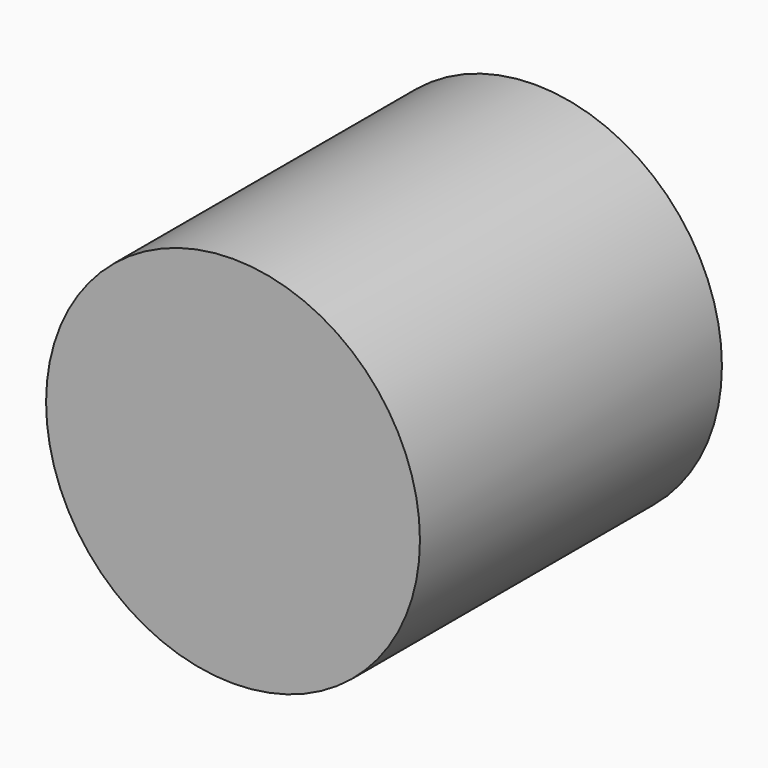
from build123d import *

# Parameters (mm, degrees)
F0_R     = 62.891877
F1_DEPTH = 127
F2_T     = -2.54


with BuildPart() as f1:
    # F0 (on Front) → F1 (new body)
    with BuildSketch(Plane.XZ):
        Circle(F0_R)
    extrude(amount=-F1_DEPTH)

    # F2
    f2_openings = [f1.faces().sort_by_distance(p)[0] for p in [
        (0, 127, 0),
    ]]
    offset(amount=F2_T, openings=f2_openings)


solid = f1.part
